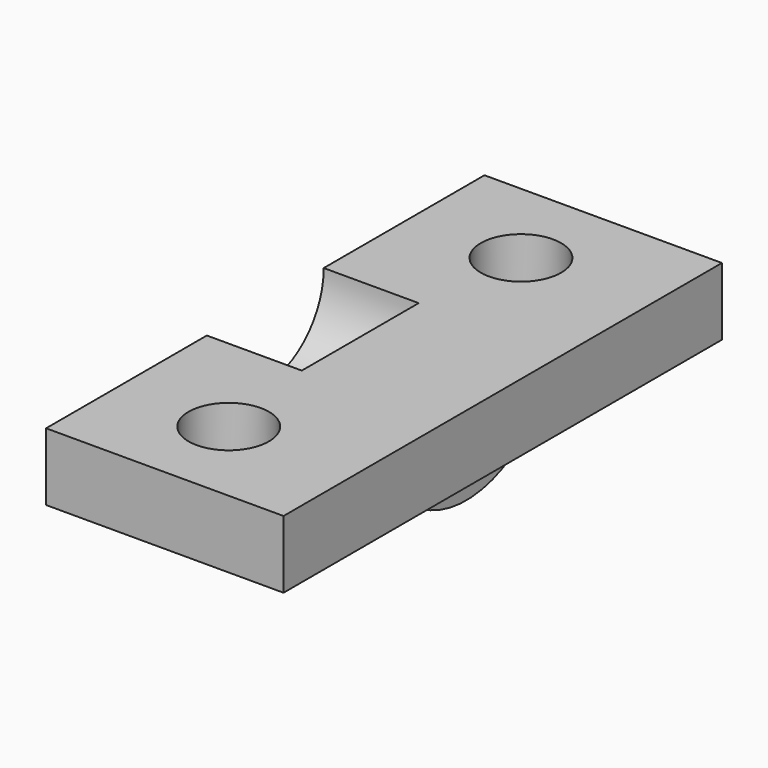
from build123d import *

# Parameters (mm, degrees)
CYLINDER073_R          = 2.2
CYLINDER073_DEPTH      = 20
CYLINDER074_R          = 2.2
CYLINDER074_DEPTH      = 20
CYLINDER072_R          = 4
CYLINDER072_DEPTH      = 6.5
CYLINDER071_W          = 6
CYLINDER071_H          = 11
CYLINDER071_ANGLE      = 180
BOX054_W               = 30
BOX054_H               = 3.7
BOX054_DEPTH           = 13
CUT088_ROLL_ANGLE      = 90
CUT088_PLACEMENT_ANGLE = -90


with BuildPart() as zylinder062:
    # Cylinder073 → Cylinder073 (new body)
    with BuildSketch(Plane(origin=(-10, 9, 5), x_dir=(1, 0, 0), z_dir=(0, -1, 0))):
        Circle(CYLINDER073_R)
    extrude(amount=CYLINDER073_DEPTH)


with BuildPart() as zylinder063:
    # Cylinder074 → Cylinder074 (new body)
    with BuildSketch(Plane(origin=(10, 9, 5), x_dir=(1, 0, 0), z_dir=(0, -1, 0))):
        Circle(CYLINDER074_R)
    extrude(amount=CYLINDER074_DEPTH)


with BuildPart() as zylinder061:
    # Cylinder072 → Cylinder072 (new body)
    with BuildSketch(Plane.XY.offset(5.8)):
        Circle(CYLINDER072_R)
    extrude(amount=CYLINDER072_DEPTH)


with BuildPart() as zylinder060:
    # Cylinder071 → Cylinder071 (revolve)
    with BuildSketch(Plane(origin=(0, 0, 0), x_dir=(-1, 0, 0), z_dir=(0, 1, 0))):
        with Locations((3, 5.5)):
            Rectangle(CYLINDER071_W, CYLINDER071_H)
    revolve(axis=Axis((0, 0, 0), (0, 0, 1)), revolution_arc=CYLINDER071_ANGLE)


with BuildPart() as y_drive_mount_top003:
    # Box054 → Box054 (new body)
    with BuildSketch(Plane(origin=(-15, -3.7, -2), x_dir=(1, 0, 0), z_dir=(0, 0, 1))):
        with Locations((15, 1.85)):
            Rectangle(BOX054_W, BOX054_H)
    extrude(amount=BOX054_DEPTH)

    # Fusion041: union Zylinder060
    add(zylinder060.part)

    # Cut081: cut Zylinder061
    add(zylinder061.part, mode=Mode.SUBTRACT)

    # Cut082: cut Zylinder063
    add(zylinder063.part, mode=Mode.SUBTRACT)

    # Cut088: cut Zylinder062
    add(zylinder062.part, mode=Mode.SUBTRACT)


with BuildPart() as y_drive_mount_top003_1:
    # Cut088 roll: moved
    add(y_drive_mount_top003.part.rotate(Axis((0, 0, 0), (1, 0, 0)), CUT088_ROLL_ANGLE))


with BuildPart() as y_drive_mount_top003_2:
    # Cut088 placement: moved
    add(y_drive_mount_top003_1.part.moved(Location((403.75, 18.85, 53.2))).rotate(Axis((403.75, 18.85, 53.2), (0, 0, 1)), CUT088_PLACEMENT_ANGLE))


solid = y_drive_mount_top003_2.part
